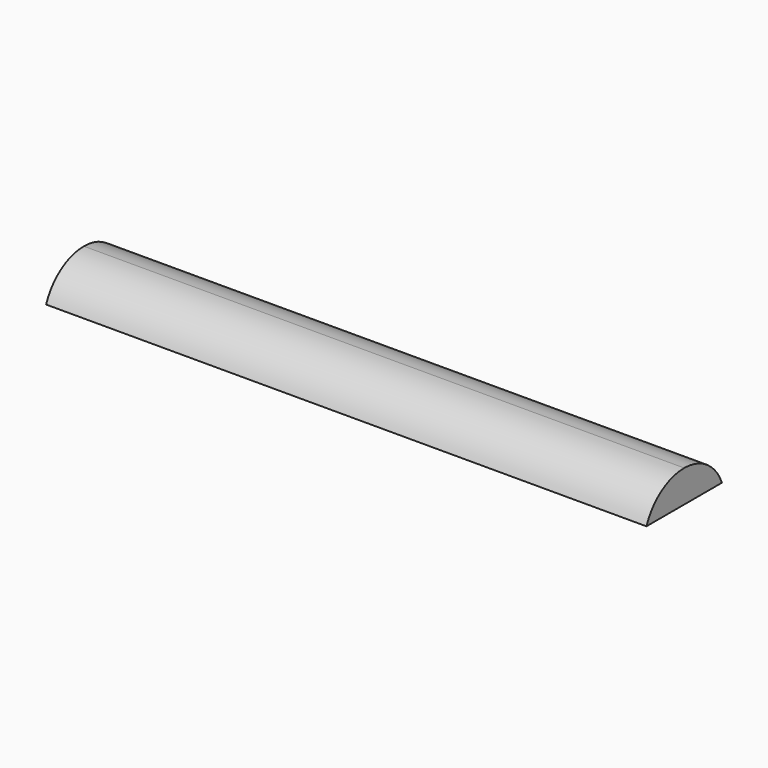
from build123d import *

# Parameters (mm, degrees)
F0_W     = 44.45
F0_H     = 6.985
F1_DEPTH = 2.38125
F3_DEPTH = 44.451


with BuildPart() as f1:
    # F0 (on Top) → F1 (new body)
    with BuildSketch(Plane.XY):
        Rectangle(F0_W, F0_H)
    extrude(amount=F1_DEPTH)

    # F2 (on face) → F3 (cut, through all)
    with BuildSketch(Plane(origin=(-22.225, 0, 0), x_dir=(0, -1, 0), z_dir=(-1, 0, 0))):
        with BuildLine():
            ThreePointArc((-3.4925, 0), (-2.113522, 1.729291), (0, 2.38125))
            Line((0, 2.38125), (-3.4925, 2.38125))
            Line((-3.4925, 2.38125), (-3.4925, 0))
        make_face()
        with BuildLine():
            ThreePointArc((0, 2.38125), (2.113522, 1.729291), (3.4925, 0))
            Line((3.4925, 0), (3.4925, 2.38125))
            Line((3.4925, 2.38125), (0, 2.38125))
        make_face()
    extrude(amount=-F3_DEPTH, mode=Mode.SUBTRACT)


solid = f1.part
